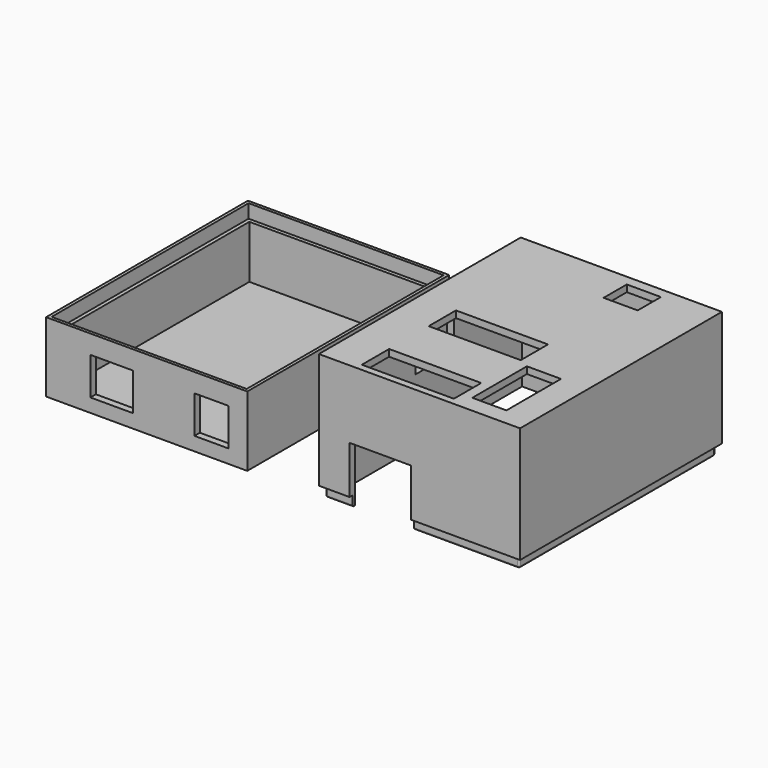
from build123d import *

# Parameters (mm, degrees)
SKETCH_W        = 59
SKETCH_H        = 74
PAD_DEPTH       = 20.5
SKETCH001_W     = 57.2
SKETCH001_H     = 72.2
POCKET_DEPTH    = 4
SKETCH002_W     = 55
SKETCH002_H     = 70
POCKET001_DEPTH = 15.5
SKETCH003_W     = 12.5
SKETCH003_H     = 11
SKETCH003_W_2   = 10
POCKET002_DEPTH = 5
SKETCH004_W     = 59
SKETCH004_H     = 74
PAD001_DEPTH    = 37
SKETCH005_W     = 18
SKETCH005_H     = 17
POCKET003_DEPTH = 5
SKETCH006_W     = 13
SKETCH006_H     = 5
POCKET004_DEPTH = 5
SKETCH007_W     = 14
SKETCH007_H     = 16
POCKET005_DEPTH = 5
SKETCH009_W     = 55
SKETCH009_H     = 70
POCKET006_DEPTH = 35
SKETCH010_W     = 74
SKETCH010_H     = 3
POCKET007_DEPTH = 1.1
SKETCH011_W     = 59
SKETCH011_H     = 3
POCKET008_DEPTH = 1.1
SKETCH012_W     = 74
SKETCH012_H     = 3
POCKET009_DEPTH = 1.1
SKETCH013_W     = 59
SKETCH013_H     = 3
POCKET010_DEPTH = 1.1
SKETCH014_W     = 27
SKETCH014_H     = 10
SKETCH014_W_2   = 10
SKETCH014_H_2   = 20
SKETCH014_H_3   = 8.5
POCKET011_DEPTH = 5
FILLET_R        = 0.5


with BuildPart() as final_piece_bottom:
    # Sketch → Pad (new body)
    with BuildSketch(Plane.XY):
        with Locations((29.5, 37)):
            Rectangle(SKETCH_W, SKETCH_H)
    extrude(amount=PAD_DEPTH)

    # Sketch001 → Pocket (cut)
    with BuildSketch(Plane.XY.offset(20.5)):
        with Locations((29.5, 37)):
            Rectangle(SKETCH001_W, SKETCH001_H)
    extrude(amount=-POCKET_DEPTH, mode=Mode.SUBTRACT)

    # Sketch002 → Pocket001 (cut)
    with BuildSketch(Plane.XY.offset(16.5)):
        with Locations((29.5, 37)):
            Rectangle(SKETCH002_W, SKETCH002_H)
    extrude(amount=-POCKET001_DEPTH, mode=Mode.SUBTRACT)

    # Sketch003 → Pocket002 (cut)
    with BuildSketch(Plane.XZ):
        with Locations((19.25, 9.5)):
            Rectangle(SKETCH003_W, SKETCH003_H)
        with Locations((48.5, 9.5)):
            Rectangle(SKETCH003_W_2, SKETCH003_H)
    extrude(amount=-POCKET002_DEPTH, mode=Mode.SUBTRACT)


with BuildPart() as final_piece_top:
    # Sketch004 → Pad001 (new body)
    with BuildSketch(Plane.XY):
        with Locations((29.5, 37)):
            Rectangle(SKETCH004_W, SKETCH004_H)
    extrude(amount=PAD001_DEPTH)

    # Sketch005 → Pocket003 (cut)
    with BuildSketch(Plane.XZ):
        with Locations((18, 8.5)):
            Rectangle(SKETCH005_W, SKETCH005_H)
    extrude(amount=-POCKET003_DEPTH, mode=Mode.SUBTRACT)

    # Sketch006 → Pocket004 (cut)
    with BuildSketch(Plane(origin=(0, 74, 0), x_dir=(-1, 0, 0), z_dir=(0, 1, 0))):
        with Locations((-40.5, 2.5)):
            Rectangle(SKETCH006_W, SKETCH006_H)
    extrude(amount=-POCKET004_DEPTH, mode=Mode.SUBTRACT)

    # Sketch007 → Pocket005 (cut)
    with BuildSketch(Plane(origin=(0, 0, 0), x_dir=(0, -1, 0), z_dir=(-1, 0, 0))):
        with Locations((-40, 27)):
            Rectangle(SKETCH007_W, SKETCH007_H)
    extrude(amount=-POCKET005_DEPTH, mode=Mode.SUBTRACT)

    # Sketch009 → Pocket006 (cut)
    with BuildSketch(Plane(origin=(0, 0, 0), x_dir=(1, 0, 0), z_dir=(0, 0, -1))):
        with Locations((29.5, -37)):
            Rectangle(SKETCH009_W, SKETCH009_H)
    extrude(amount=-POCKET006_DEPTH, mode=Mode.SUBTRACT)

    # Sketch010 → Pocket007 (cut)
    with BuildSketch(Plane.YZ.offset(59)):
        with Locations((37, 1.5)):
            Rectangle(SKETCH010_W, SKETCH010_H)
    extrude(amount=-POCKET007_DEPTH, mode=Mode.SUBTRACT)

    # Sketch011 → Pocket008 (cut)
    with BuildSketch(Plane.XZ):
        with Locations((29.5, 1.5)):
            Rectangle(SKETCH011_W, SKETCH011_H)
    extrude(amount=-POCKET008_DEPTH, mode=Mode.SUBTRACT)

    # Sketch012 → Pocket009 (cut)
    with BuildSketch(Plane(origin=(0, 0, 0), x_dir=(0, -1, 0), z_dir=(-1, 0, 0))):
        with Locations((-37, 1.5)):
            Rectangle(SKETCH012_W, SKETCH012_H)
    extrude(amount=-POCKET009_DEPTH, mode=Mode.SUBTRACT)

    # Sketch013 → Pocket010 (cut)
    with BuildSketch(Plane(origin=(0, 74, 0), x_dir=(-1, 0, 0), z_dir=(0, 1, 0))):
        with Locations((-29.5, 1.5)):
            Rectangle(SKETCH013_W, SKETCH013_H)
    extrude(amount=-POCKET010_DEPTH, mode=Mode.SUBTRACT)

    # Sketch014 → Pocket011 (cut)
    with BuildSketch(Plane.XY.offset(37)):
        with Locations((24.5, 7)):
            Rectangle(SKETCH014_W, SKETCH014_H)
        with Locations((46, 15)):
            Rectangle(SKETCH014_W_2, SKETCH014_H_2)
        with Locations((24.5, 31.5)):
            Rectangle(SKETCH014_W, SKETCH014_H)
        with Locations((38.5, 66.75)):
            Rectangle(SKETCH014_W_2, SKETCH014_H_3)
    extrude(amount=-POCKET011_DEPTH, mode=Mode.SUBTRACT)

    # Fillet
    fillet_edges = [final_piece_top.edges().sort_by_distance(p)[0] for p in [
        (5.05, 1.1, 0),
        (1.1, 1.1, 1.5),
        (17.55, 72.9, 0),
        (1.1, 37, 0),
        (42.45, 1.1, 0),
        (57.9, 37, 0),
        (52.45, 72.9, 0),
        (57.9, 1.1, 1.5),
        (1.1, 72.9, 1.5),
        (57.9, 72.9, 1.5),
    ]]
    fillet(fillet_edges, radius=FILLET_R)


with BuildPart() as final_piece_top_1:
    # Fillet placement: moved
    add(final_piece_top.part.moved(Location((80, 0, 0))))


solid = Compound([final_piece_bottom.part, final_piece_top_1.part])
